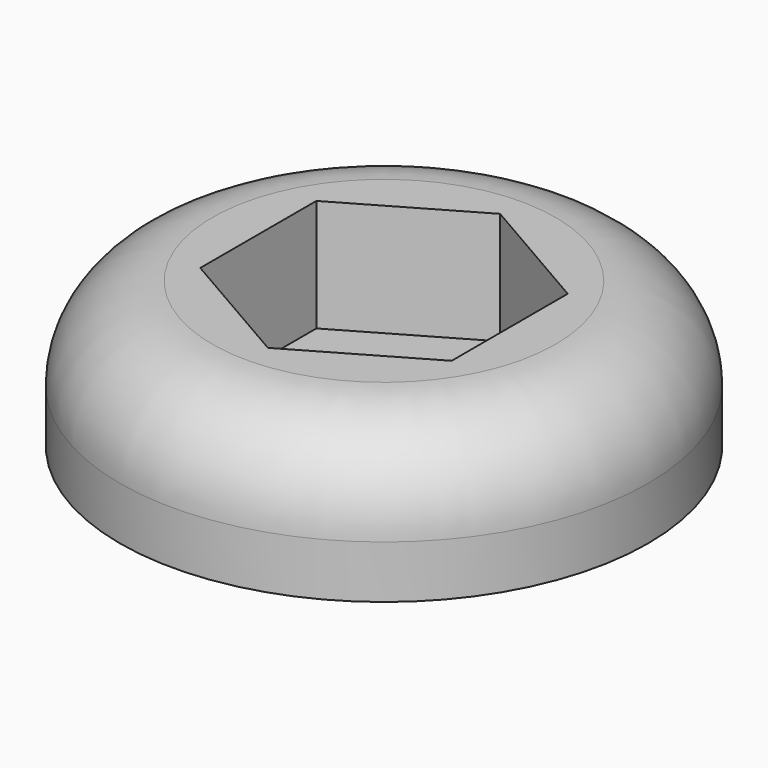
from build123d import *

# Parameters (mm, degrees)
F0_R     = 25.4
F1_DEPTH = 13.97
F0_R_2   = 7.9375
F2_DEPTH = 3.175
F3_R     = 8.89


with BuildPart() as f1:
    # F0 (on Top) → F1 (new body)
    with BuildSketch(Plane.XY):
        Circle(F0_R)
        Polygon((0, 13.956173), (12.0864, 6.978086), (12.0864, -6.978086), (0, -13.956173), (-12.0864, -6.978086), (-12.0864, 6.978086), align=None, mode=Mode.SUBTRACT)
    extrude(amount=F1_DEPTH)

    # F0 (on Top) → F2 (join)
    with BuildSketch(Plane.XY):
        Polygon((12.0864, -6.978086), (12.0864, 6.978086), (0, 13.956173), (-12.0864, 6.978086), (-12.0864, -6.978086), (0, -13.956173), align=None)
        Circle(F0_R_2, mode=Mode.SUBTRACT)
    extrude(amount=F2_DEPTH)

    # F3
    f3_edges = [f1.edges().sort_by_distance(p)[0] for p in [
        (-25.4, 0, 13.97),
    ]]
    fillet(f3_edges, radius=F3_R)


solid = f1.part
